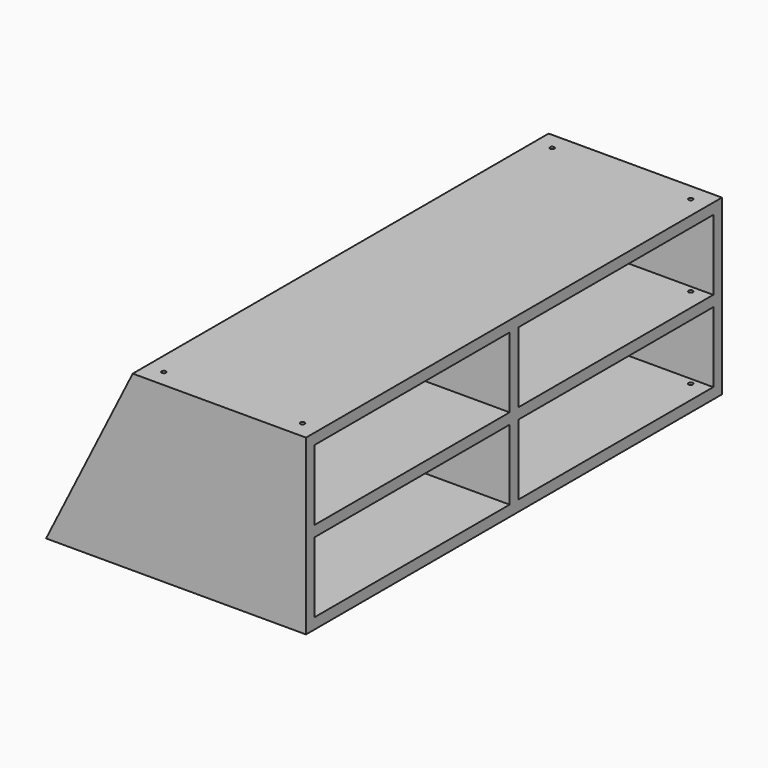
from build123d import *

# Parameters (mm, degrees)
F1_DEPTH = 600
F2_T     = -25
F3_DEPTH = 12.5
F4_W     = 500
F4_H     = 1150
F5_DEPTH = 12.5
F7_W     = 1150
F7_H     = 350
F8_DEPTH = 12.5
F10_D    = 10


with BuildPart() as f1:
    # F0 (on Front) → F1 (new body, symmetric)
    with BuildSketch(Plane.XZ):
        Polygon((0, 200), (-400, 200), (-600, -200), (0, -200), align=None)
    extrude(amount=F1_DEPTH, both=True)

    # F2
    f2_openings = [f1.faces().sort_by_distance(p)[0] for p in [
        (0, 0, 0),
        (-500, 0, 0),
    ]]
    offset(amount=F2_T, openings=f2_openings)

    # F0 (on Front) → F3 (join, symmetric)
    with BuildSketch(Plane.XZ):
        Polygon((0, 200), (-400, 200), (-600, -200), (0, -200), align=None)
    extrude(amount=F3_DEPTH, both=True)

    # F4 (on Top) → F5 (join, symmetric)
    with BuildSketch(Plane.XY):
        with Locations((-250, 0)):
            Rectangle(F4_W, F4_H)
    extrude(amount=F5_DEPTH, both=True)

    # F7 (on offset) → F8 (join, symmetric)
    with BuildSketch(Plane.YZ.offset(-300)):
        Rectangle(F7_W, F7_H)
    extrude(amount=F8_DEPTH, both=True)

    # F10 (through all)
    with Locations(Plane(origin=(0, 0, -200), x_dir=(1, 0, 0), z_dir=(0, 0, -1))):
        with Locations((-40, 560), (-547.5, 560), (-40, -560), (-547.5, -560), (-360, 560), (-360, -560)):
            Hole(F10_D / 2)


solid = f1.part
